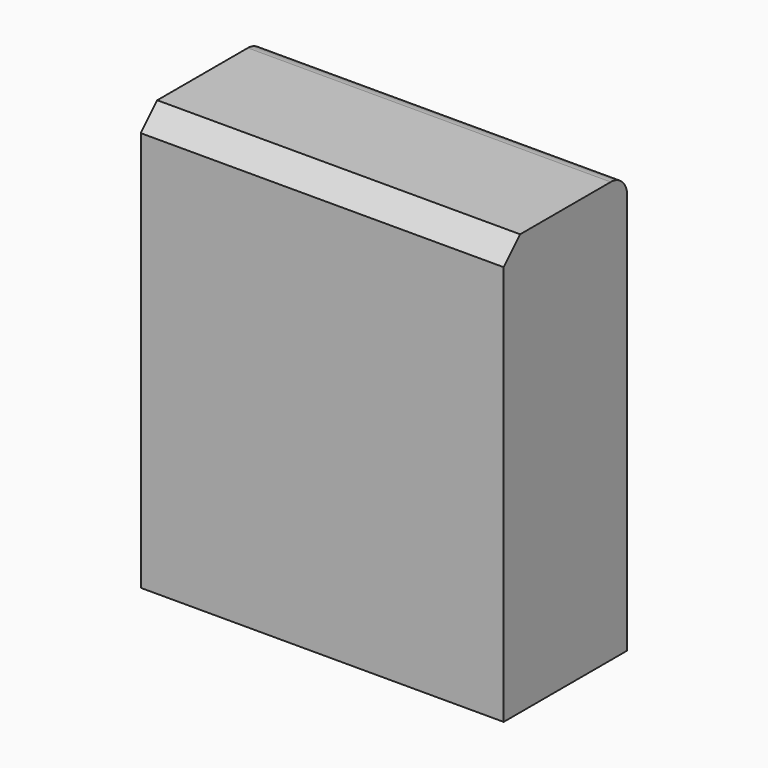
from build123d import *

# Parameters (mm, degrees)
F0_W     = 89.529717
F0_H     = 103.844382
F1_DEPTH = 38.1
F2_SIZE  = 5.08
F3_R     = 5.08
F4_R     = 20.287785
F5_DEPTH = 3.302
F6_R     = 7.910996
F6_R_2   = 14.245045
F7_DEPTH = 5.08


with BuildPart() as f1:
    # F0 (on Front) → F1 (new body)
    with BuildSketch(Plane.XZ):
        with Locations((-32.89539, 12.548234)):
            Rectangle(F0_W, F0_H)
    extrude(amount=F1_DEPTH)

    # F2
    f2_edges = [f1.edges().sort_by_distance(p)[0] for p in [
        (-32.895389, -38.1, 64.470425),
    ]]
    chamfer(f2_edges, length=F2_SIZE)

    # F3
    f3_edges = [f1.edges().sort_by_distance(p)[0] for p in [
        (-32.895389, 0, 64.470425),
    ]]
    fillet(f3_edges, radius=F3_R)

    # F4 (on face) → F5 (cut)
    with BuildSketch(Plane(origin=(0, 0, 0), x_dir=(-1, 0, 0), z_dir=(0, 1, 0))):
        with Locations((32.772042, -3.602346)):
            Circle(F4_R)
    extrude(amount=-F5_DEPTH, mode=Mode.SUBTRACT)

    # F6 (on face) → F7 (join)
    with BuildSketch(Plane(origin=(0, 0, 0), x_dir=(-1, 0, 0), z_dir=(0, 1, 0))):
        with Locations((3.005289, 43.038554)):
            Circle(F6_R)
        with Locations((55.144507, 42.090569)):
            Circle(F6_R_2)
    extrude(amount=F7_DEPTH)


solid = f1.part
